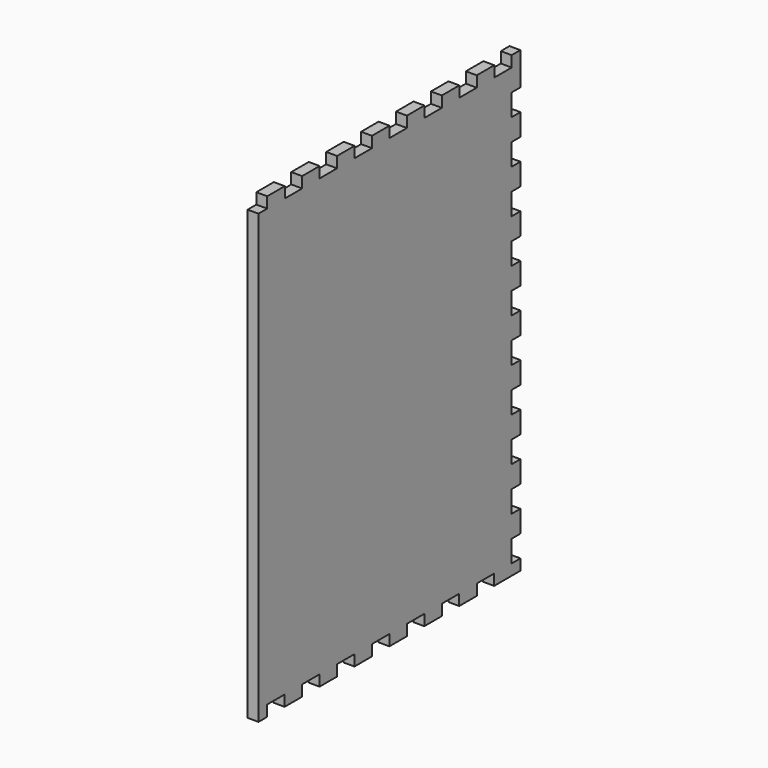
from build123d import *

# Parameters (mm, degrees)
F1_DEPTH = 10


with BuildPart() as f1:
    # F0 (on Right) → F1 (new body)
    with BuildSketch(Plane.YZ):
        Polygon((0, 410), (0, 0), (10, 0), (10, 10), (29.925, 10), (29.925, 0), (50, 0), (50, 10), (69.925, 10), (69.925, 0), (90, 0), (90, 10), (109.925, 10), (109.925, 0), (130, 0), (130, 10), (149.925, 10), (149.925, 0), (170, 0), (170, 10), (189.925, 10), (189.925, 0), (210, 0), (210, 10), (229.925, 10), (229.925, 0), (250, 0), (250, 10), (269.925, 10), (269.925, 0), (300, 0), (300, 10), (290, 10), (290, 29.925), (300, 29.925), (300, 50), (290, 50), (290, 69.925), (300, 69.925), (300, 90), (290, 90), (290, 109.925), (300, 109.925), (300, 130), (290, 130), (290, 149.925), (300, 149.925), (300, 170), (290, 170), (290, 189.925), (300, 189.925), (300, 210), (290, 210), (290, 229.925), (300, 229.925), (300, 250), (290, 250), (290, 269.925), (300, 269.925), (300, 290), (290, 290), (290, 309.925), (300, 309.925), (300, 330), (290, 330), (290, 349.925), (300, 349.925), (300, 370), (290, 370), (290, 389.925), (300, 389.925), (300, 420), (290, 420), (290, 410), (270.075, 410), (270.075, 420), (250, 420), (250, 410), (230.075, 410), (230.075, 420), (210, 420), (210, 410), (190.075, 410), (190.075, 420), (170, 420), (170, 410), (150.075, 410), (150.075, 420), (130, 420), (130, 410), (110.075, 410), (110.075, 420), (90, 420), (90, 410), (70.075, 410), (70.075, 420), (50, 420), (50, 410), (30.075, 410), (30.075, 420), (10, 420), (10, 410), align=None)
    extrude(amount=F1_DEPTH)


solid = f1.part
